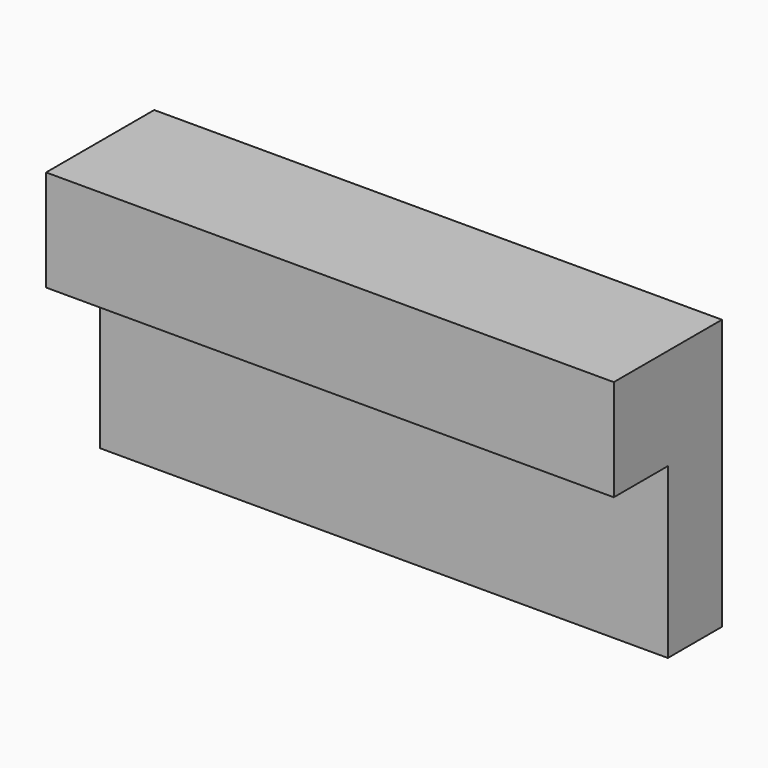
from build123d import *

# Parameters (mm, degrees)
F1_DEPTH = 106.68
F3_DEPTH = 9.525


with BuildPart() as f1:
    # F0 (on Right) → F1 (new body)
    with BuildSketch(Plane.YZ):
        Polygon((-12.7, 0), (0, 0), (0, 50.8), (-25.4, 50.8), (-25.4, 31.75), (-12.7, 31.75), align=None)
    extrude(amount=F1_DEPTH)

    # F2 (on face) → F3 (cut)
    with BuildSketch(Plane(origin=(0, 0, 0), x_dir=(-1, 0, 0), z_dir=(0, 1, 0))):
        Polygon((-103.642695, 3.777405), (-104.14, 0), (-100.965, 0), (-101.462305, 3.777405), align=None)
        Polygon((-98.308695, 3.777405), (-98.806, 0), (-95.631, 0), (-96.128305, 3.777405), align=None)
        Polygon((-92.974695, 3.777405), (-93.472, 0), (-90.297, 0), (-90.794305, 3.777405), align=None)
        Polygon((-87.640695, 3.777405), (-88.138, 0), (-84.963, 0), (-85.460305, 3.777405), align=None)
        Polygon((-82.306695, 3.777405), (-82.804, 0), (-79.629, 0), (-80.126305, 3.777405), align=None)
        Polygon((-76.972695, 3.777405), (-77.47, 0), (-74.295, 0), (-74.792305, 3.777405), align=None)
        Polygon((-71.638695, 3.777405), (-72.136, 0), (-68.961, 0), (-69.458305, 3.777405), align=None)
        Polygon((-66.304695, 3.777405), (-66.802, 0), (-63.627, 0), (-64.124305, 3.777405), align=None)
        Polygon((-60.970695, 3.777405), (-61.468, 0), (-58.293, 0), (-58.790305, 3.777405), align=None)
        Polygon((-55.636695, 3.777405), (-56.134, 0), (-52.959, 0), (-53.456305, 3.777405), align=None)
        Polygon((-50.302695, 3.777405), (-50.8, 0), (-47.625, 0), (-48.122305, 3.777405), align=None)
        Polygon((-45.466, 0), (-42.291, 0), (-42.788305, 3.777405), (-44.968695, 3.777405), align=None)
        Polygon((-40.132, 0), (-36.957, 0), (-37.454305, 3.777405), (-39.634695, 3.777405), align=None)
        Polygon((-18.796, 0), (-15.621, 0), (-16.118305, 3.777405), (-18.298695, 3.777405), align=None)
        Polygon((-24.13, 0), (-20.955, 0), (-21.452305, 3.777405), (-23.632695, 3.777405), align=None)
        Polygon((-29.464, 0), (-26.289, 0), (-26.786305, 3.777405), (-28.966695, 3.777405), align=None)
        Polygon((-34.798, 0), (-31.623, 0), (-32.120305, 3.777405), (-34.300695, 3.777405), align=None)
        Polygon((-13.462, 0), (-10.287, 0), (-10.784305, 3.777405), (-12.964695, 3.777405), align=None)
        Polygon((-8.128, 0), (-4.953, 0), (-5.450305, 3.777405), (-7.630695, 3.777405), align=None)
        Polygon((0, 0), (0, 2.893982), (-0.116305, 3.777405), (-2.296695, 3.777405), (-2.794, 0), align=None)
    extrude(amount=-F3_DEPTH, mode=Mode.SUBTRACT)


solid = f1.part
